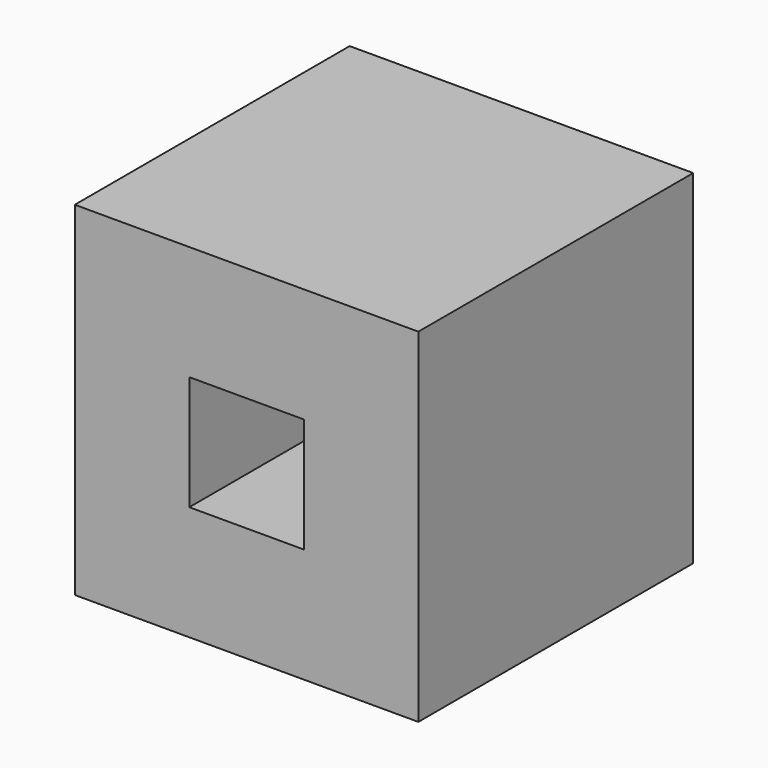
from build123d import *

# Parameters (mm, degrees)
F0_W     = 76.2
F0_H     = 76.2
F2_DEPTH = 76.2
F1_W     = 25.4
F1_H     = 25.4
F3_DEPTH = 76.201


with BuildPart() as f2:
    # F0 (on Front) → F2 (new body)
    with BuildSketch(Plane.XZ):
        Rectangle(F0_W, F0_H)
    extrude(amount=F2_DEPTH)

    # F1 (on face) → F3 (cut, through all)
    with BuildSketch(Plane.XZ):
        Rectangle(F1_W, F1_H)
    extrude(amount=F3_DEPTH, mode=Mode.SUBTRACT)


solid = f2.part
